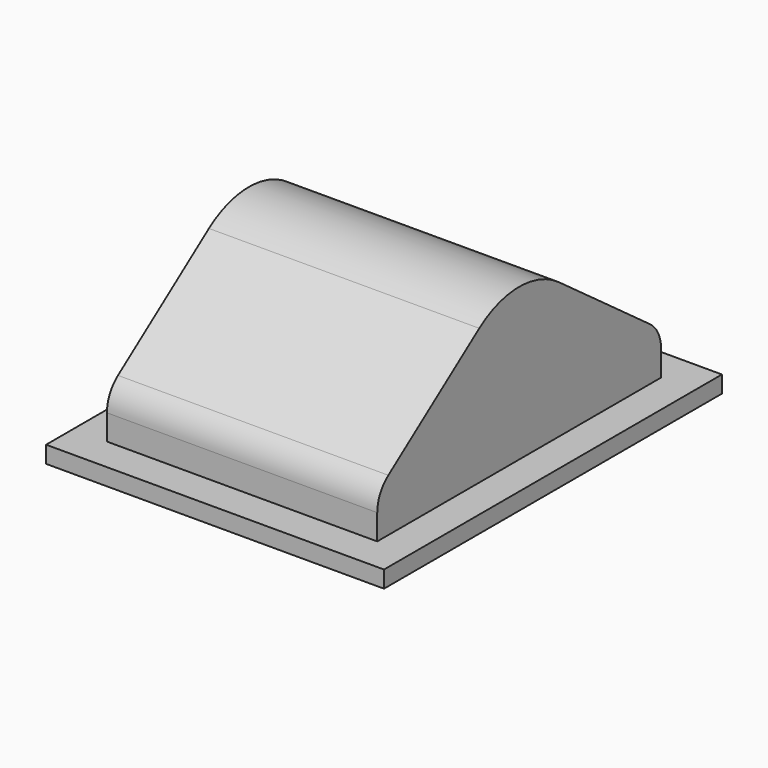
from build123d import *

# Parameters (mm, degrees)
F0_W     = 20
F0_H     = 25
F1_DEPTH = 1
F3_DEPTH = 8


with BuildPart() as f1:
    # F0 (on Top) → F1 (new body)
    with BuildSketch(Plane.XY):
        Rectangle(F0_W, F0_H)
    extrude(amount=F1_DEPTH)

    # F2 (on Right) → F3 (join, symmetric)
    with BuildSketch(Plane.YZ):
        with BuildLine():
            Line((9.680679, 4.11431), (2.951698, 9.035775))
            ThreePointArc((2.951698, 9.035775), (0, 10), (-2.951698, 9.035775))
            Line((-2.951698, 9.035775), (-9.680679, 4.11431))
            ThreePointArc((-9.680679, 4.11431), (-10.283446, 3.405163), (-10.5, 2.5))
            Line((-10.5, 2.5), (-10.5, 1))
            Line((-10.5, 1), (10.5, 1))
            Line((10.5, 1), (10.5, 2.5))
            ThreePointArc((10.5, 2.5), (10.283446, 3.405163), (9.680679, 4.11431))
        make_face()
    extrude(amount=F3_DEPTH, both=True)


solid = f1.part
